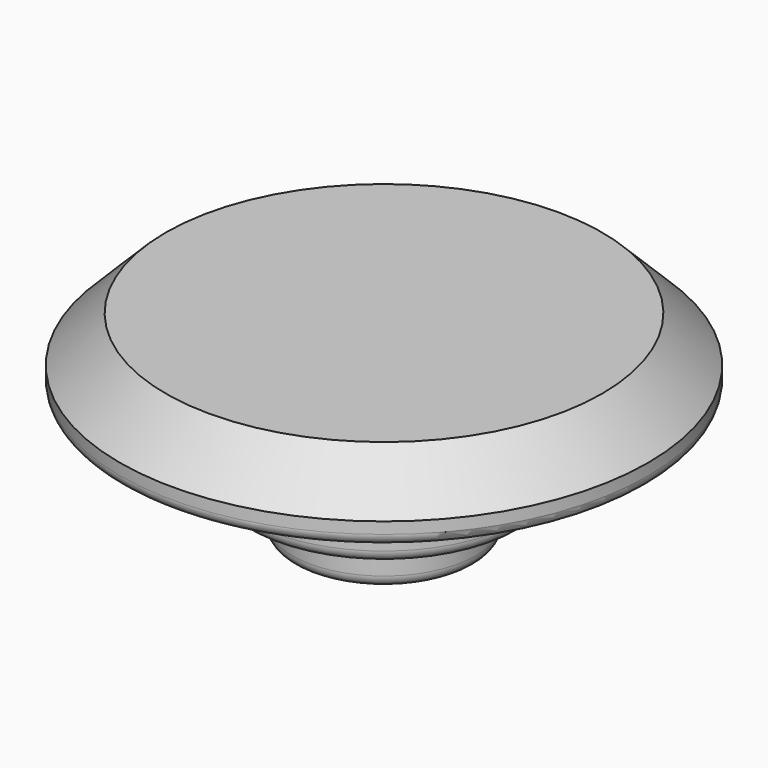
from build123d import *

# Parameters (mm, degrees)
F0_R     = 11.5
F1_DEPTH = 3
F2_R     = 4
F3_DEPTH = 5.5
F4_R     = 6
F5_DEPTH = 3.5
F6_SIZE  = 2
F7_R     = 0.5


with BuildPart() as f1:
    # F0 (on Top) → F1 (new body)
    with BuildSketch(Plane.XY):
        Circle(F0_R)
    extrude(amount=F1_DEPTH)

    # F2 (on face) → F3 (join)
    with BuildSketch(Plane(origin=(0, 0, 0), x_dir=(1, 0, 0), z_dir=(0, 0, -1))):
        Circle(F2_R)
    extrude(amount=F3_DEPTH)

    # F4 (on face) → F5 (join)
    with BuildSketch(Plane(origin=(0, 0, 0), x_dir=(1, 0, 0), z_dir=(0, 0, -1))):
        Circle(F4_R)
    extrude(amount=F5_DEPTH)

    # F6
    f6_edges = [f1.edges().sort_by_distance(p)[0] for p in [
        (-11.5, 0, 3),
    ]]
    chamfer(f6_edges, length=F6_SIZE)

    # F7
    f7_edges = [f1.edges().sort_by_distance(p)[0] for p in [
        (-6, 0, -3.5),
        (-4, 0, -5.5),
        (-11.5, 0, 0),
    ]]
    fillet(f7_edges, radius=F7_R)


solid = f1.part
